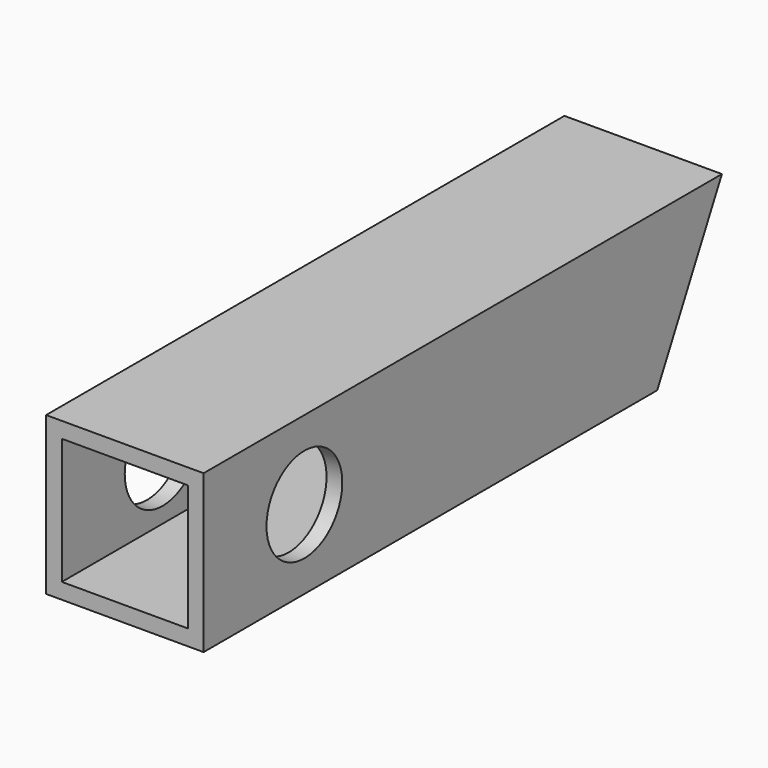
from build123d import *

# Parameters (mm, degrees)
F0_W     = 31.75
F0_H     = 31.75
F1_DEPTH = 130.599993
F2_T     = -3.175
F4_DEPTH = 50.8
F5_D     = 19.1008


with BuildPart() as f1:
    # F0 (on Front) → F1 (new body)
    with BuildSketch(Plane.XZ):
        Rectangle(F0_W, F0_H)
    extrude(amount=F1_DEPTH)

    # F2
    f2_openings = [f1.faces().sort_by_distance(p)[0] for p in [
        (0, -130.599993, 0),
    ]]
    offset(amount=F2_T, openings=f2_openings)

    # F3 (on face) → F4 (cut)
    with BuildSketch(Plane.YZ.offset(15.875)):
        Polygon((0, -15.875), (0, 15.875), (-16.299993, -15.875), align=None)
    extrude(amount=-F4_DEPTH, mode=Mode.SUBTRACT)

    # F5 (through all)
    with Locations(Plane.YZ.offset(15.875)):
        with Locations((-105.199993, 0)):
            Hole(F5_D / 2)


solid = f1.part
